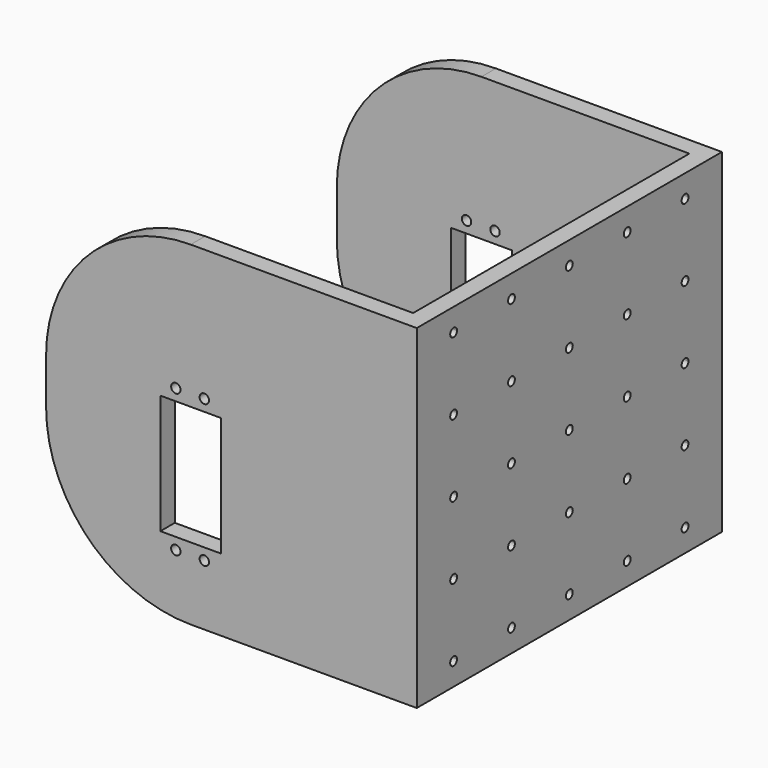
from build123d import *

# Parameters (mm, degrees)
F0_R     = 1.651
F1_DEPTH = 133.9596
F3_DEPTH = 123.825
F4_R     = 50.8
F5_R     = 1.5
F6_DEPTH = 25.4


with BuildPart() as f1:
    # F0 (on Front) → F1 (new body)
    with BuildSketch(Plane.XZ):
        Polygon((-34.6942804754, 11.2792461441), (-34.6942804754, 53.1892461441), (-24.0262804754, 53.1892461441), (-24.0262804754, 103.3542461441), (-74.8262804754, 103.3542461441), (-74.8262804754, -14.1207538559), (-24.0262804754, -14.1207538559), (-24.0262804754, 11.2792461441), align=None)
        with Locations((-29.2570274323, 7.2342461441)):
            Circle(F0_R, mode=Mode.SUBTRACT)
        with Locations((-29.2570274323, 57.2342461441)):
            Circle(F0_R, mode=Mode.SUBTRACT)
        Polygon((-24.0262804754, 103.3542461441), (-24.0262804754, 53.1892461441), (-13.3582804754, 53.1892461441), (-13.3582804754, 11.2792461441), (-24.0262804754, 11.2792461441), (-24.0262804754, -14.1207538559), (55.3487195246, -14.1207538559), (55.3487195246, 103.3542461441), align=None)
        with Locations((-19.2570274323, 7.2342461441)):
            Circle(F0_R, mode=Mode.SUBTRACT)
        with Locations((-19.2570274323, 57.2342461441)):
            Circle(F0_R, mode=Mode.SUBTRACT)
    extrude(amount=F1_DEPTH)

    # F2 (on face) → F3 (cut)
    with BuildSketch(Plane(origin=(-74.8262804754, 0, 0), x_dir=(0, -1, 0), z_dir=(-1, 0, 0))):
        Polygon((127.6096, 103.3542461441), (6.35, 103.3542461441), (6.35, -14.1207538559), (111.6725547834, -14.1207538559), (127.6096, -14.1207538559), align=None)
    extrude(amount=-F3_DEPTH, mode=Mode.SUBTRACT)

    # F4
    f4_edges = [f1.edges().sort_by_distance(p)[0] for p in [
        (-74.82628, -130.7846, -14.120754),
        (-74.82628, -130.7846, 103.354246),
        (-74.82628, -3.175, -14.120754),
        (-74.82628, -3.175, 103.354246),
    ]]
    fillet(f4_edges, radius=F4_R)

    # F5 (on face) → F6 (cut)
    with BuildSketch(Plane.YZ.offset(55.3487195246)):
        with BuildLine():
            ThreePointArc((-116.2798, 44.6167461441), (-116.7191398282, 45.6774063159), (-117.7798, 46.1167461441))
            Line((-117.7798, 46.1167461441), (-117.7798, 43.1167461441))
            ThreePointArc((-117.7798, 43.1167461441), (-116.7191398282, 43.5560859723), (-116.2798, 44.6167461441))
        make_face()
        with BuildLine():
            Line((-117.7798, 43.1167461441), (-117.7798, 46.1167461441))
            ThreePointArc((-117.7798, 46.1167461441), (-119.2798, 44.6167461441), (-117.7798, 43.1167461441))
        make_face()
        with Locations((-92.3798, 44.6167461441)):
            Circle(F5_R)
        with Locations((-66.9798, 44.6167461441)):
            Circle(F5_R)
        with Locations((-41.5798, 44.6167461441)):
            Circle(F5_R)
        with BuildLine():
            Line((-16.1798, 43.1167461441), (-16.1798, 46.1167461441))
            ThreePointArc((-16.1798, 46.1167461441), (-17.6798, 44.6167461441), (-16.1798, 43.1167461441))
        make_face()
        with BuildLine():
            ThreePointArc((-14.6798, 44.6167461441), (-15.1191398282, 45.6774063159), (-16.1798, 46.1167461441))
            Line((-16.1798, 46.1167461441), (-16.1798, 43.1167461441))
            ThreePointArc((-16.1798, 43.1167461441), (-15.1191398282, 43.5560859723), (-14.6798, 44.6167461441))
        make_face()
        with BuildLine():
            Line((-16.1798, 17.7167461441), (-16.1798, 20.7167461441))
            ThreePointArc((-16.1798, 20.7167461441), (-17.6798, 19.2167461441), (-16.1798, 17.7167461441))
        make_face()
        with BuildLine():
            ThreePointArc((-14.6798, 19.2167461441), (-15.1191398282, 20.2774063159), (-16.1798, 20.7167461441))
            Line((-16.1798, 20.7167461441), (-16.1798, 17.7167461441))
            ThreePointArc((-16.1798, 17.7167461441), (-15.1191398282, 18.1560859723), (-14.6798, 19.2167461441))
        make_face()
        with Locations((-41.5798, 19.2167461441)):
            Circle(F5_R)
        with Locations((-66.9798, 19.2167461441)):
            Circle(F5_R)
        with Locations((-92.3798, 19.2167461441)):
            Circle(F5_R)
        with BuildLine():
            Line((-117.7798, 17.7167461441), (-117.7798, 20.7167461441))
            ThreePointArc((-117.7798, 20.7167461441), (-119.2798, 19.2167461441), (-117.7798, 17.7167461441))
        make_face()
        with BuildLine():
            Line((-117.7798, -6.1832538559), (-117.7798, -4.6832538559))
            ThreePointArc((-117.7798, -4.6832538559), (-118.8404601718, -7.2439140277), (-116.2798, -6.1832538559))
            Line((-116.2798, -6.1832538559), (-117.7798, -6.1832538559))
        make_face()
        with BuildLine():
            ThreePointArc((-116.2798, 19.2167461441), (-116.7191398282, 20.2774063159), (-117.7798, 20.7167461441))
            Line((-117.7798, 20.7167461441), (-117.7798, 17.7167461441))
            ThreePointArc((-117.7798, 17.7167461441), (-116.7191398282, 18.1560859723), (-116.2798, 19.2167461441))
        make_face()
        with BuildLine():
            ThreePointArc((-90.8798, -6.1832538559), (-92.3798, -4.6832538559), (-93.8798, -6.1832538559))
            Line((-93.8798, -6.1832538559), (-90.8798, -6.1832538559))
        make_face()
        with BuildLine():
            Line((-90.8798, -6.1832538559), (-93.8798, -6.1832538559))
            ThreePointArc((-93.8798, -6.1832538559), (-92.3798, -7.6832538559), (-90.8798, -6.1832538559))
        make_face()
        with BuildLine():
            ThreePointArc((-65.4798, -6.1832538559), (-66.9798, -4.6832538559), (-68.4798, -6.1832538559))
            Line((-68.4798, -6.1832538559), (-65.4798, -6.1832538559))
        make_face()
        with BuildLine():
            Line((-65.4798, -6.1832538559), (-68.4798, -6.1832538559))
            ThreePointArc((-68.4798, -6.1832538559), (-66.9798, -7.6832538559), (-65.4798, -6.1832538559))
        make_face()
        with BuildLine():
            ThreePointArc((-40.0798, -6.1832538559), (-41.5798, -4.6832538559), (-43.0798, -6.1832538559))
            Line((-43.0798, -6.1832538559), (-40.0798, -6.1832538559))
        make_face()
        with BuildLine():
            Line((-40.0798, -6.1832538559), (-43.0798, -6.1832538559))
            ThreePointArc((-43.0798, -6.1832538559), (-41.5798, -7.6832538559), (-40.0798, -6.1832538559))
        make_face()
        with BuildLine():
            ThreePointArc((-14.6798, -6.1832538559), (-15.1191398282, -5.1225936841), (-16.1798, -4.6832538559))
            Line((-16.1798, -4.6832538559), (-16.1798, -6.1832538559))
            Line((-16.1798, -6.1832538559), (-17.6798, -6.1832538559))
            ThreePointArc((-17.6798, -6.1832538559), (-16.1798, -7.6832538559), (-14.6798, -6.1832538559))
        make_face()
        with BuildLine():
            Line((-16.1798, -6.1832538559), (-16.1798, -4.6832538559))
            ThreePointArc((-16.1798, -4.6832538559), (-17.2404601718, -5.1225936841), (-17.6798, -6.1832538559))
            Line((-17.6798, -6.1832538559), (-16.1798, -6.1832538559))
        make_face()
        with BuildLine():
            ThreePointArc((-116.2798, -6.1832538559), (-116.7191398282, -5.1225936841), (-117.7798, -4.6832538559))
            Line((-117.7798, -4.6832538559), (-117.7798, -6.1832538559))
            Line((-117.7798, -6.1832538559), (-116.2798, -6.1832538559))
        make_face()
        with BuildLine():
            ThreePointArc((-116.2798, 70.0167461441), (-116.7191398282, 71.0774063159), (-117.7798, 71.5167461441))
            Line((-117.7798, 71.5167461441), (-117.7798, 68.5167461441))
            ThreePointArc((-117.7798, 68.5167461441), (-116.7191398282, 68.9560859723), (-116.2798, 70.0167461441))
        make_face()
        with BuildLine():
            Line((-117.7798, 68.5167461441), (-117.7798, 71.5167461441))
            ThreePointArc((-117.7798, 71.5167461441), (-119.2798, 70.0167461441), (-117.7798, 68.5167461441))
        make_face()
        with Locations((-92.3798, 70.0167461441)):
            Circle(F5_R)
        with Locations((-66.9798, 70.0167461441)):
            Circle(F5_R)
        with Locations((-41.5798, 70.0167461441)):
            Circle(F5_R)
        with BuildLine():
            ThreePointArc((-14.6798, 70.0167461441), (-15.1191398282, 71.0774063159), (-16.1798, 71.5167461441))
            Line((-16.1798, 71.5167461441), (-16.1798, 68.5167461441))
            ThreePointArc((-16.1798, 68.5167461441), (-15.1191398282, 68.9560859723), (-14.6798, 70.0167461441))
        make_face()
        with BuildLine():
            Line((-16.1798, 68.5167461441), (-16.1798, 71.5167461441))
            ThreePointArc((-16.1798, 71.5167461441), (-17.6798, 70.0167461441), (-16.1798, 68.5167461441))
        make_face()
        with BuildLine():
            ThreePointArc((-14.6798, 95.4167461441), (-16.1798, 96.9167461441), (-17.6798, 95.4167461441))
            Line((-17.6798, 95.4167461441), (-16.1798, 95.4167461441))
            Line((-16.1798, 95.4167461441), (-16.1798, 93.9167461441))
            ThreePointArc((-16.1798, 93.9167461441), (-15.1191398282, 94.3560859723), (-14.6798, 95.4167461441))
        make_face()
        with BuildLine():
            Line((-16.1798, 95.4167461441), (-17.6798, 95.4167461441))
            ThreePointArc((-17.6798, 95.4167461441), (-17.2404601718, 94.3560859723), (-16.1798, 93.9167461441))
            Line((-16.1798, 93.9167461441), (-16.1798, 95.4167461441))
        make_face()
        with BuildLine():
            ThreePointArc((-40.0798, 95.4167461441), (-41.5798, 96.9167461441), (-43.0798, 95.4167461441))
            Line((-43.0798, 95.4167461441), (-40.0798, 95.4167461441))
        make_face()
        with BuildLine():
            Line((-40.0798, 95.4167461441), (-43.0798, 95.4167461441))
            ThreePointArc((-43.0798, 95.4167461441), (-41.5798, 93.9167461441), (-40.0798, 95.4167461441))
        make_face()
        with BuildLine():
            Line((-65.4798, 95.4167461441), (-68.4798, 95.4167461441))
            ThreePointArc((-68.4798, 95.4167461441), (-66.9798, 93.9167461441), (-65.4798, 95.4167461441))
        make_face()
        with BuildLine():
            ThreePointArc((-65.4798, 95.4167461441), (-66.9798, 96.9167461441), (-68.4798, 95.4167461441))
            Line((-68.4798, 95.4167461441), (-65.4798, 95.4167461441))
        make_face()
        with BuildLine():
            ThreePointArc((-90.8798, 95.4167461441), (-92.3798, 96.9167461441), (-93.8798, 95.4167461441))
            Line((-93.8798, 95.4167461441), (-90.8798, 95.4167461441))
        make_face()
        with BuildLine():
            Line((-117.7798, 95.4167461441), (-116.2798, 95.4167461441))
            ThreePointArc((-116.2798, 95.4167461441), (-118.8404601718, 96.4774063159), (-117.7798, 93.9167461441))
            Line((-117.7798, 93.9167461441), (-117.7798, 95.4167461441))
        make_face()
        with BuildLine():
            ThreePointArc((-117.7798, 93.9167461441), (-116.7191398282, 94.3560859723), (-116.2798, 95.4167461441))
            Line((-116.2798, 95.4167461441), (-117.7798, 95.4167461441))
            Line((-117.7798, 95.4167461441), (-117.7798, 93.9167461441))
        make_face()
        with BuildLine():
            Line((-90.8798, 95.4167461441), (-93.8798, 95.4167461441))
            ThreePointArc((-93.8798, 95.4167461441), (-92.3798, 93.9167461441), (-90.8798, 95.4167461441))
        make_face()
    extrude(amount=-F6_DEPTH, mode=Mode.SUBTRACT)


solid = f1.part
